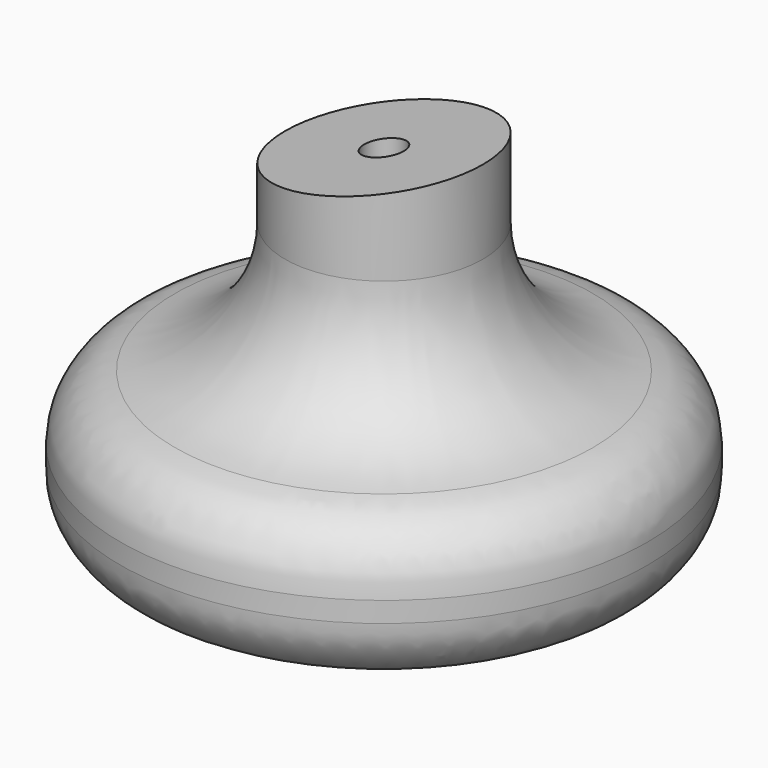
from build123d import *

# Parameters (mm, degrees)
F0_W      = 15
F0_H      = 5
F2_R      = 20
F3_R      = 10
F4_R      = 3
F5_DEPTH  = 100
F7_START  = -25
F6_R      = 6
F7_DEPTH  = 75
F8_R      = 1
F9_R      = 2
F11_DEPTH = 25


with BuildPart() as f1:
    # F0 (on Front) → F1 (revolve)
    with BuildSketch(Plane.XZ):
        with BuildLine():
            Line((0, 0), (0, -60))
            ThreePointArc((0, -60), (20.8180621376, -57.0528159674), (40, -48.4428877022))
            Line((40, -48.4428877022), (40, -30))
            Line((40, -30), (15, -30))
            Line((15, -30), (15, 0))
            Line((15, 0), (0, 0))
        make_face()
        with Locations((7.5, 2.5)):
            Rectangle(F0_W, F0_H)
    revolve(axis=Axis((0, 0, -30), (0, 0, 1)))

    # F2
    f2_edges = [f1.edges().sort_by_distance(p)[0] for p in [
        (-15, 0, -30),
    ]]
    fillet(f2_edges, radius=F2_R)

    # F3
    f3_edges = [f1.edges().sort_by_distance(p)[0] for p in [
        (-40, 0, -48.442888),
        (-40, 0, -30),
    ]]
    fillet(f3_edges, radius=F3_R)

    # F4 (on Top) → F5 (cut, symmetric)
    with BuildSketch(Plane.XY):
        Circle(F4_R)
    extrude(amount=F5_DEPTH, both=True, mode=Mode.SUBTRACT)

    # F6 (on Top) → F7 (cut)
    with BuildSketch(Plane.XY.offset(F7_START)):
        Circle(F6_R)
    extrude(amount=-F7_DEPTH, mode=Mode.SUBTRACT)

    # F8
    f8_edges = [f1.edges().sort_by_distance(p)[0] for p in [
        (-6, 0, -25),
    ]]
    fillet(f8_edges, radius=F8_R)

    # F9
    f9_edges = [f1.edges().sort_by_distance(p)[0] for p in [
        (-6, 0, -59.759615),
    ]]
    fillet(f9_edges, radius=F9_R)

    # F10 (on Front) → F11 (cut, symmetric)
    with BuildSketch(Plane.XZ):
        Polygon((-50, -8.8163490354), (50, 8.8163490354), (-50, 8.8163490354), align=None)
    extrude(amount=F11_DEPTH, both=True, mode=Mode.SUBTRACT)


solid = f1.part
